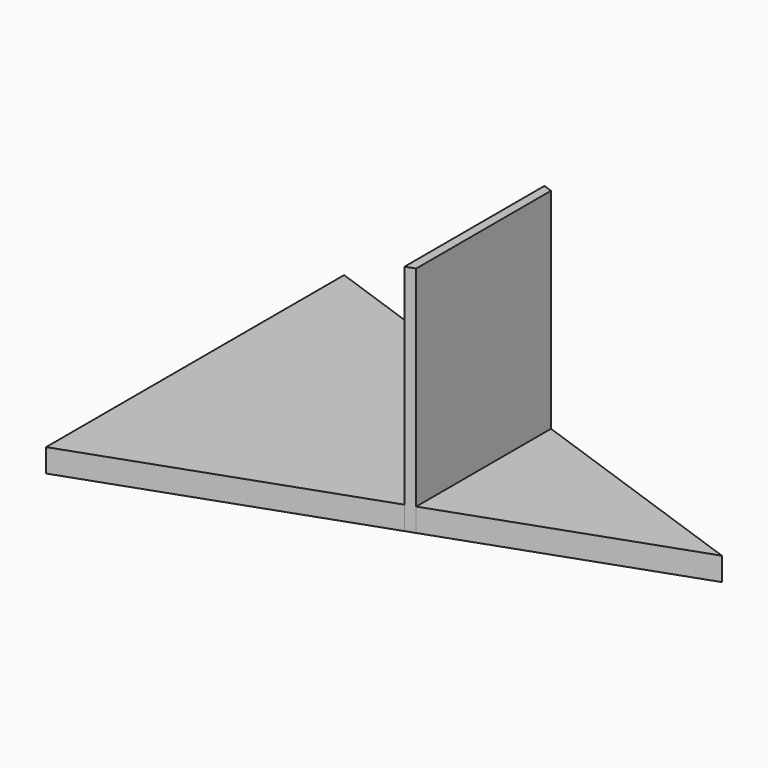
from build123d import *

# Parameters (mm, degrees)
F1_DEPTH = 63.5
F2_DEPTH = 6.35


with BuildPart() as f1:
    # F0 (on Top) → F1 (new body)
    with BuildSketch(Plane.XY):
        Polygon((-3.363489, 22.979976), (-5.8504, 23.859232), (-5.8504, -23.859232), (-3.363489, -22.979976), align=None)
    extrude(amount=F1_DEPTH)

    # F0 (on Top) → F2 (join)
    with BuildSketch(Plane.XY):
        Polygon((-5.8504, 23.859232), (-82.0504, 50.8), (-82.0504, -50.8), (-5.8504, -23.859232), align=None)
        Polygon((-3.363489, 22.979976), (-5.8504, 23.859232), (-5.8504, -23.859232), (-3.363489, -22.979976), align=None)
        Polygon((61.633698, 0), (-3.363489, 22.979976), (-3.363489, -22.979976), align=None)
    extrude(amount=F2_DEPTH)


solid = f1.part
